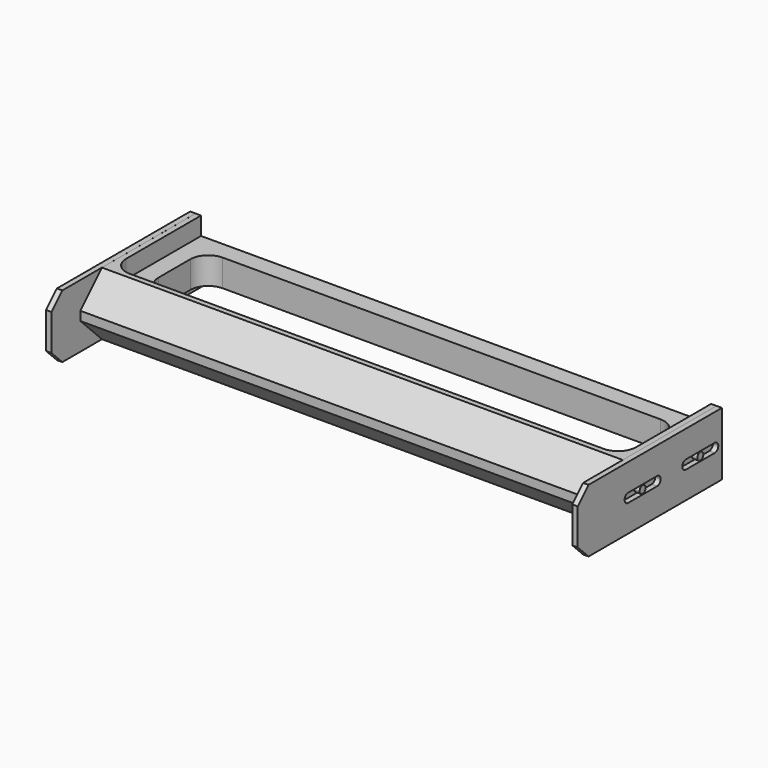
from build123d import *

# Parameters (mm, degrees)
F1_DEPTH      = 17.5
F1_DEPTH_BACK = 17.5
F2_SIZE       = 15
F3_SIZE       = 7.5
F5_W          = 3
F5_H          = 92.5
F6_DEPTH      = 0.01
F7_W          = 3
F7_H          = 92.5
F8_DEPTH      = 0.01
F4_R          = 2.1
F9_DEPTH      = 3
F11_DEPTH     = 10
F13_DEPTH     = 10
F15_DEPTH     = 25


with BuildPart() as f1:
    # F0 (on Top) → F1 (new body, two sides)
    with BuildSketch(Plane.XY) as f1_sk:
        Polygon((147.5, -50), (147.5, 50), (-147.5, 50), (-147.5, -50), (-144.5, -50), (-144.5, -30), (144.5, -30), (144.5, -50), align=None)
    extrude(amount=F1_DEPTH)
    extrude(f1_sk.sketch, amount=-F1_DEPTH_BACK)

    # F2
    f2_edges = [f1.edges().sort_by_distance(p)[0] for p in [
        (0, -30, 17.5),
        (0, -30, -17.5),
    ]]
    chamfer(f2_edges, length=F2_SIZE)

    # F3
    f3_edges = [f1.edges().sort_by_distance(p)[0] for p in [
        (146, -50, 17.5),
        (146, -50, -17.5),
        (-146, -50, 17.5),
        (-146, -50, -17.5),
    ]]
    chamfer(f3_edges, length=F3_SIZE)

    # F5 (on face) → F6 (join)
    with BuildSketch(Plane.XY.offset(17.5)):
        with Locations((-146, 3.75)):
            Rectangle(F5_W, F5_H)
        with Locations((146, 3.75)):
            Rectangle(F5_W, F5_H)
    extrude(amount=F6_DEPTH)

    # F7 (on face) → F8 (join)
    with BuildSketch(Plane(origin=(0, 0, -17.5), x_dir=(1, 0, 0), z_dir=(0, 0, -1))):
        with Locations((-146, -3.75)):
            Rectangle(F7_W, F7_H)
        with Locations((146, -3.75)):
            Rectangle(F7_W, F7_H)
    extrude(amount=F8_DEPTH)

    # F4 (on face) → F9 (cut)
    with BuildSketch(Plane.YZ.offset(147.5)):
        with BuildLine():
            ThreePointArc((47.5, 0), (46.767767, 1.767767), (45, 2.5))
            Line((45, 2.5), (25, 2.5))
            ThreePointArc((25, 2.5), (23.232233, 1.767767), (22.5, 0))
            ThreePointArc((22.5, 0), (23.232233, -1.767767), (25, -2.5))
            Line((25, -2.5), (45, -2.5))
            ThreePointArc((45, -2.5), (46.767767, -1.767767), (47.5, 0))
        make_face()
        with Locations((35, 0)):
            Circle(F4_R, mode=Mode.SUBTRACT)
        with BuildLine():
            ThreePointArc((7.5, 0), (6.767767, 1.767767), (5, 2.5))
            Line((5, 2.5), (-15, 2.5))
            ThreePointArc((-15, 2.5), (-16.767767, 1.767767), (-17.5, 0))
            ThreePointArc((-17.5, 0), (-16.767767, -1.767767), (-15, -2.5))
            Line((-15, -2.5), (5, -2.5))
            ThreePointArc((5, -2.5), (6.767767, -1.767767), (7.5, 0))
        make_face()
        with Locations((-5, 0)):
            Circle(F4_R, mode=Mode.SUBTRACT)
    extrude(amount=-F9_DEPTH, mode=Mode.SUBTRACT)

    # F10 (on face) → F11 (cut)
    with BuildSketch(Plane.XY.offset(17.5)):
        with BuildLine():
            Line((141.5, 50), (-141.5, 50))
            Line((-141.5, 50), (-141.5, -2))
            ThreePointArc((-141.5, -2), (-138.571068, -9.071068), (-131.5, -12))
            Line((-131.5, -12), (131.5, -12))
            ThreePointArc((131.5, -12), (138.571068, -9.071068), (141.5, -2))
            Line((141.5, -2), (141.5, 50))
        make_face()
    extrude(amount=-F11_DEPTH, mode=Mode.SUBTRACT)

    # F12 (on face) → F13 (cut)
    with BuildSketch(Plane(origin=(0, 0, -17.5), x_dir=(1, 0, 0), z_dir=(0, 0, -1))):
        with BuildLine():
            Line((141.5, -50), (141.5, 2))
            ThreePointArc((141.5, 2), (138.571068, 9.071068), (131.5, 12))
            Line((131.5, 12), (-131.5, 12))
            ThreePointArc((-131.5, 12), (-138.571068, 9.071068), (-141.5, 2))
            Line((-141.5, 2), (-141.5, -50))
            Line((-141.5, -50), (141.5, -50))
        make_face()
    extrude(amount=-F13_DEPTH, mode=Mode.SUBTRACT)

    # F14 (on face) → F15 (cut)
    with BuildSketch(Plane.XY.offset(7.5)):
        with BuildLine():
            Line((121.5, 40), (-121.5, 40))
            ThreePointArc((-121.5, 40), (-128.571068, 37.071068), (-131.5, 30))
            Line((-131.5, 30), (-131.5, 8))
            ThreePointArc((-131.5, 8), (-128.571068, 0.928932), (-121.5, -2))
            Line((-121.5, -2), (121.5, -2))
            ThreePointArc((121.5, -2), (128.571068, 0.928932), (131.5, 8))
            Line((131.5, 8), (131.5, 30))
            ThreePointArc((131.5, 30), (128.571068, 37.071068), (121.5, 40))
        make_face()
    extrude(amount=-F15_DEPTH, mode=Mode.SUBTRACT)


solid = f1.part
